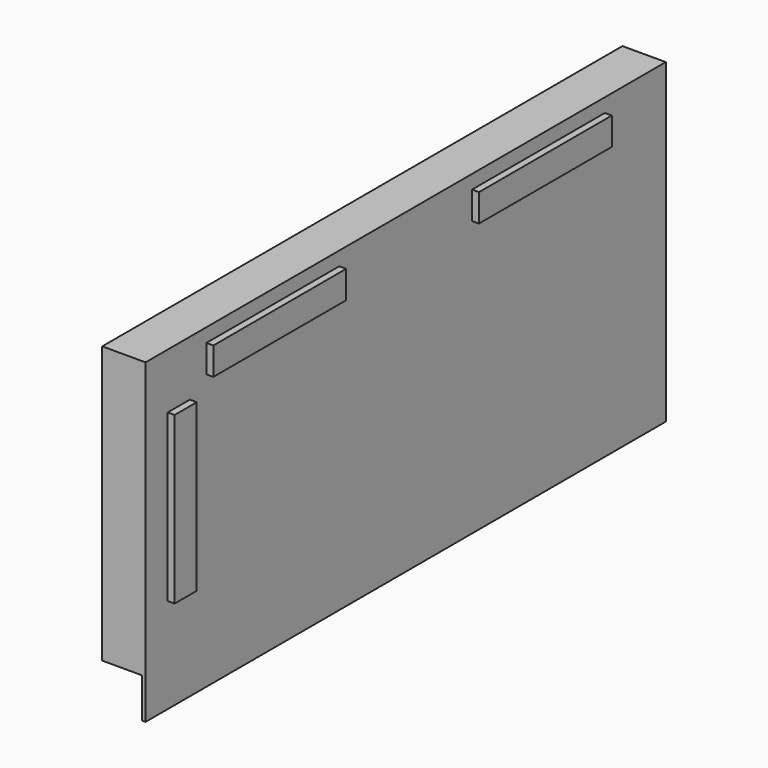
from build123d import *

# Parameters (mm, degrees)
F0_W     = 596.9
F0_H     = 254
F1_DEPTH = 36.576
F2_W     = 596.9
F2_H     = 290.576
F3_DEPTH = 3.175
F4_W     = 152.4
F4_H     = 25.4
F4_W_2   = 25.4
F4_H_2   = 152.4
F5_DEPTH = 6.35


with BuildPart() as f1:
    # F0 (on Right) → F1 (new body)
    with BuildSketch(Plane.YZ):
        Rectangle(F0_W, F0_H)
    extrude(amount=F1_DEPTH)

    # F2 (on face) → F3 (join)
    with BuildSketch(Plane.YZ.offset(36.576)):
        with Locations((0, -18.288)):
            Rectangle(F2_W, F2_H)
    extrude(amount=F3_DEPTH)

    # F4 (on face) → F5 (join)
    with BuildSketch(Plane.YZ.offset(39.751)):
        with Locations((152.4, 101.6)):
            Rectangle(F4_W, F4_H)
        with Locations((-260.35, 0)):
            Rectangle(F4_W_2, F4_H_2)
        with Locations((-152.4, 101.6)):
            Rectangle(F4_W, F4_H)
    extrude(amount=F5_DEPTH)


solid = f1.part
